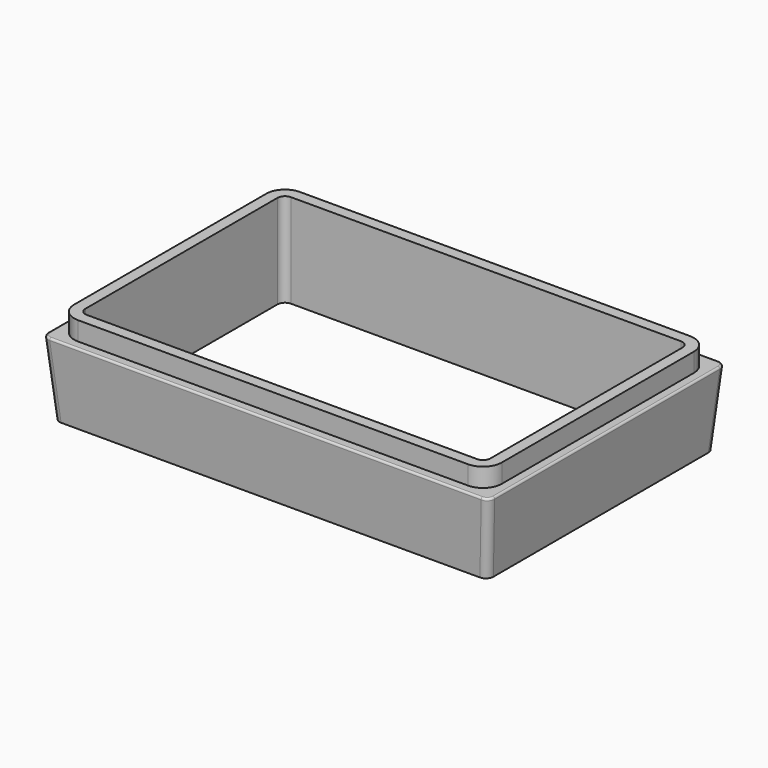
from build123d import *

# Parameters (mm, degrees)
F0_W          = 120
F0_H          = 80
F0_W_2        = 108
F0_H_2        = 68
F1_DEPTH      = 25
F3_DEPTH      = 80.001
F5_DEPTH      = 60.001
F5_DEPTH_BACK = 60.001
F6_W          = 120
F6_H          = 80
F6_W_2        = 114
F6_H_2        = 74
F7_DEPTH      = 5
F8_R          = 5
F9_R          = 2
F10_R         = 0.5
F11_R         = 2


with BuildPart() as f1:
    # F0 (on Top) → F1 (new body)
    with BuildSketch(Plane.XY):
        Rectangle(F0_W, F0_H)
        Rectangle(F0_W_2, F0_H_2, mode=Mode.SUBTRACT)
    extrude(amount=F1_DEPTH)

    # F2 (on face) → F3 (cut, through all)
    with BuildSketch(Plane.XZ.offset(40)):
        Polygon((-57.8127834119, 0), (-60, 25), (-75, 25), (-75, -19.6831412613), (75, -19.6831412613), (75, 25), (60, 25), (57.8127834119, 0), align=None)
    extrude(amount=-F3_DEPTH, mode=Mode.SUBTRACT)

    # F4 (on Right) → F5 (cut, two sides)
    with BuildSketch(Plane.YZ) as f5_sk:
        Polygon((55, 25), (40, 25), (37.8127834119, 0), (-37.8127834119, 0), (-40, 25), (-55, 25), (-55, -15), (55, -15), align=None)
    extrude(amount=-F5_DEPTH, mode=Mode.SUBTRACT)
    extrude(f5_sk.sketch, amount=F5_DEPTH_BACK, mode=Mode.SUBTRACT)

    # F6 (on face) → F7 (cut)
    with BuildSketch(Plane.XY.offset(25)):
        Rectangle(F6_W, F6_H)
        Rectangle(F6_W_2, F6_H_2, mode=Mode.SUBTRACT)
    extrude(amount=-F7_DEPTH, mode=Mode.SUBTRACT)

    # F8
    f8_edges = [f1.edges().sort_by_distance(p)[0] for p in [
        (-57, -37, 22.5),
        (-57, 37, 22.5),
        (57, -37, 22.5),
        (57, 37, 22.5),
    ]]
    fillet(f8_edges, radius=F8_R)

    # F9
    f9_edges = [f1.edges().sort_by_distance(p)[0] for p in [
        (-58.68767, -38.68767, 10),
        (-58.68767, 38.68767, 10),
        (58.68767, -38.68767, 10),
        (58.68767, 38.68767, 10),
    ]]
    fillet(f9_edges, radius=F9_R)

    # F10
    f10_edges = [f1.edges().sort_by_distance(p)[0] for p in [
        (0, -39.562557, 20),
    ]]
    fillet(f10_edges, radius=F10_R)

    # F11
    f11_edges = [f1.edges().sort_by_distance(p)[0] for p in [
        (-54, 34, 12.5),
        (-54, -34, 12.5),
        (54, -34, 12.5),
        (54, 34, 12.5),
    ]]
    fillet(f11_edges, radius=F11_R)


solid = f1.part
